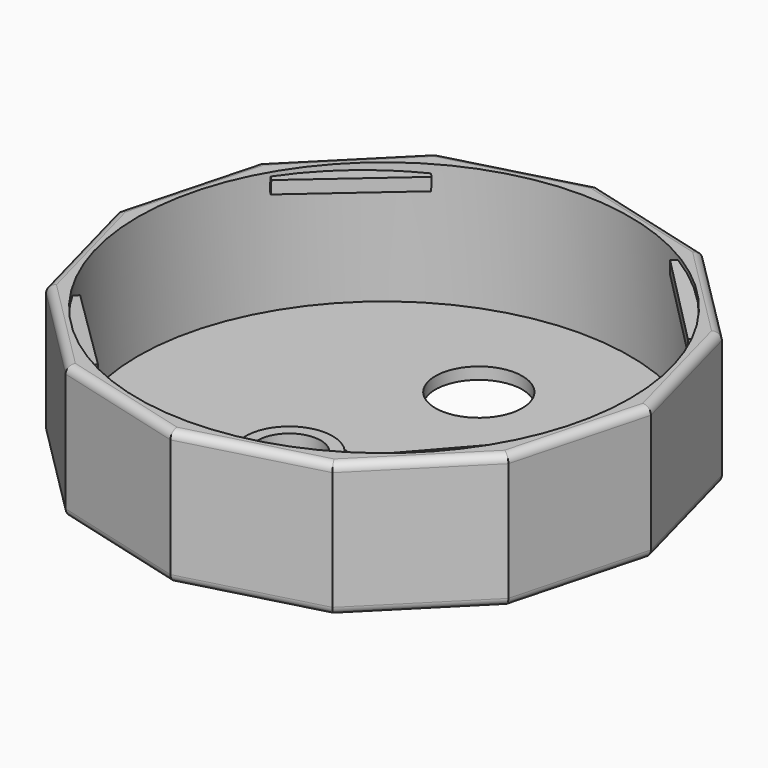
from build123d import *

# Parameters (mm, degrees)
PAD_DEPTH            = 17
SKETCH001_R          = 31.125
HOLE_DEPTH           = 15.5
SKETCH003_R          = 5.5
POCKET_DEPTH         = 100
POCKET_DEPTH_BACK    = 100
SKETCH010_R          = 5.5
PAD004_DEPTH         = 7.01
SKETCH011_R          = 4
POCKET003_DEPTH      = 100
POCKET003_DEPTH_BACK = 100
CHAMFER001_SIZE      = 2
CHAMFER002_SIZE      = 5
PAD007_DEPTH         = 3.3
POLARPATTERN_COUNT   = 4
FILLET_R             = 1


with BuildPart() as part:
    # Sketch → Pad (new body)
    with BuildSketch(Plane.XY):
        Polygon((-29.250775, 16.887943), (-33.775885, 0), (-29.250775, -16.887943), (-16.887943, -29.250775), (0, -33.775885), (16.887943, -29.250775), (29.250775, -16.887943), (33.775885, 0), (29.250775, 16.887943), (16.887943, 29.250775), (0, 33.775885), (-16.887943, 29.250775), align=None)
    extrude(amount=PAD_DEPTH)

    # Sketch001 (on Face14 of Pad) → Hole (cut)
    with BuildSketch(Plane.XY.offset(17)):
        Circle(SKETCH001_R)
    extrude(amount=-HOLE_DEPTH, mode=Mode.SUBTRACT)

    # Sketch003 → Pocket (cut, two sides)
    with BuildSketch(Plane.XY) as pocket_sk:
        with Locations((0, 15)):
            Circle(SKETCH003_R)
    extrude(amount=-POCKET_DEPTH, mode=Mode.SUBTRACT)
    extrude(pocket_sk.sketch, amount=POCKET_DEPTH_BACK, mode=Mode.SUBTRACT)

    # Sketch010 → Pad004 (join)
    with BuildSketch(Plane.XY):
        with Locations((0, -15)):
            Circle(SKETCH010_R)
    extrude(amount=PAD004_DEPTH)

    # Sketch011 → Pocket003 (cut, two sides)
    with BuildSketch(Plane.XY) as pocket003_sk:
        with Locations((0, -15)):
            Circle(SKETCH011_R)
    extrude(amount=-POCKET003_DEPTH, mode=Mode.SUBTRACT)
    extrude(pocket003_sk.sketch, amount=POCKET003_DEPTH_BACK, mode=Mode.SUBTRACT)

    # Chamfer001
    chamfer001_edges = [part.edges().sort_by_distance(p)[0] for p in [
        (-4, -15, 0),
    ]]
    chamfer(chamfer001_edges, length=CHAMFER001_SIZE)

    # Chamfer002
    chamfer002_edges = [part.edges().sort_by_distance(p)[0] for p in [
        (-5.5, -15, 1.5),
    ]]
    chamfer(chamfer002_edges, length=CHAMFER002_SIZE)

    # Sketch015 (on Face19 of Chamfer002) → Pad007 (join)
    with BuildSketch(Plane(origin=(23.069359, -23.069359, 0), x_dir=(0.707107, 0.707107, 0), z_dir=(0.707107, -0.707107, 0))):
        Polygon((-8, 15.943219), (7.944127, 16.5), (8, 14.9), (-7.944127, 14.343219), align=None)
    pad007 = extrude(amount=-PAD007_DEPTH)

    # PolarPattern: Pad007 ×4 about axis
    polarpattern_axis = Axis((0, 0, 0), (0, 0, 1))
    for i in range(1, POLARPATTERN_COUNT):
        add(pad007.rotate(polarpattern_axis, i * 360 / POLARPATTERN_COUNT))

    # Fillet
    fillet_edges = [part.edges().sort_by_distance(p)[0] for p in [
        (23.069359, 23.069359, 17),
        (8.443971, 31.51333, 17),
        (-8.443971, 31.51333, 17),
        (-23.069359, 23.069359, 17),
        (-31.51333, 8.443971, 17),
        (-31.51333, -8.443971, 17),
        (-23.069359, -23.069359, 17),
        (-8.443971, -31.51333, 17),
        (8.443971, -31.51333, 17),
        (23.069359, -23.069359, 17),
        (31.51333, -8.443971, 17),
        (31.51333, 8.443971, 17),
        (-8.443971, 31.51333, 0),
        (-23.069359, 23.069359, 0),
        (-31.51333, 8.443971, 0),
        (-31.51333, -8.443971, 0),
        (8.443971, 31.51333, 0),
        (23.069359, 23.069359, 0),
        (31.51333, 8.443971, 0),
        (31.51333, -8.443971, 0),
        (23.069359, -23.069359, 0),
        (8.443971, -31.51333, 0),
        (-8.443971, -31.51333, 0),
        (-23.069359, -23.069359, 0),
    ]]
    fillet(fillet_edges, radius=FILLET_R)


solid = part.part
